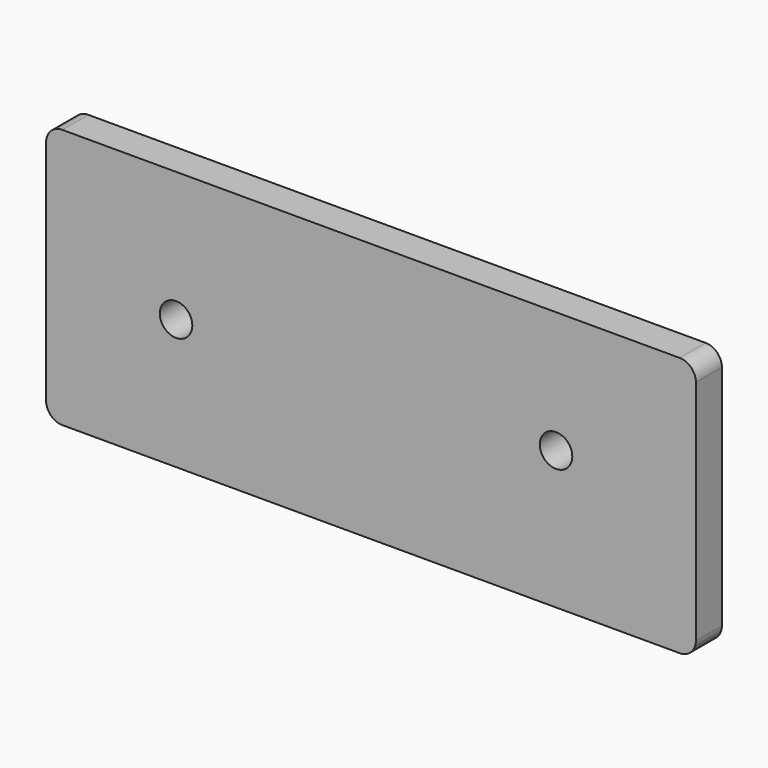
from build123d import *

# Parameters (mm, degrees)
F0_W     = 254
F0_H     = 101.6
F0_R     = 6.35
F1_DEPTH = 12.7
F2_R     = 6.35


with BuildPart() as f1:
    # F0 (on Front) → F1 (new body)
    with BuildSketch(Plane.XZ):
        with Locations((0.987604, -16.815585)):
            Rectangle(F0_W, F0_H)
        with Locations((-75.212396, -16.815585)):
            Circle(F0_R, mode=Mode.SUBTRACT)
        with Locations((73.305778, -13.591797)):
            Circle(F0_R, mode=Mode.SUBTRACT)
    extrude(amount=F1_DEPTH)

    # F2
    f2_edges = [f1.edges().sort_by_distance(p)[0] for p in [
        (-126.012396, -6.35, -67.615585),
        (127.987604, -6.35, -67.615585),
        (127.987604, -6.35, 33.984415),
        (-126.012396, -6.35, 33.984415),
    ]]
    fillet(f2_edges, radius=F2_R)


solid = f1.part
